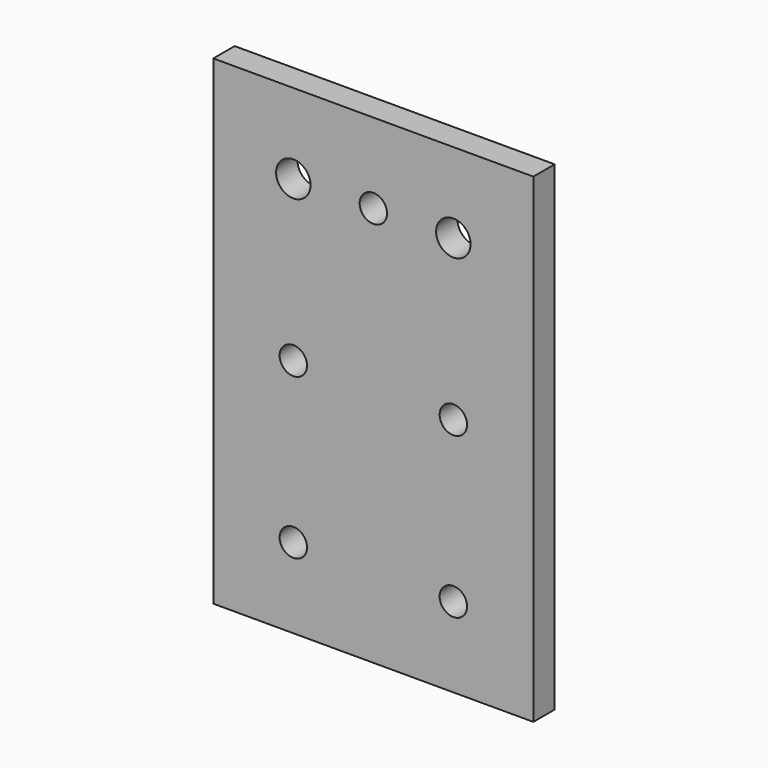
from build123d import *

# Parameters (mm, degrees)
F0_W     = 76.2
F0_H     = 114.3
F0_R     = 3.2639
F0_R_2   = 4.1021
F1_DEPTH = 6.35


with BuildPart() as f1:
    # F0 (on Front) → F1 (new body)
    with BuildSketch(Plane.XZ):
        with Locations((38.1, 57.15)):
            Rectangle(F0_W, F0_H)
        with Locations((19.05, 19.05)):
            Circle(F0_R, mode=Mode.SUBTRACT)
        with Locations((57.15, 19.05)):
            Circle(F0_R, mode=Mode.SUBTRACT)
        with Locations((19.05, 57.15)):
            Circle(F0_R, mode=Mode.SUBTRACT)
        with Locations((19.05, 95.25)):
            Circle(F0_R_2, mode=Mode.SUBTRACT)
        with Locations((57.15, 57.15)):
            Circle(F0_R, mode=Mode.SUBTRACT)
        with Locations((38.1, 95.25)):
            Circle(F0_R, mode=Mode.SUBTRACT)
        with Locations((57.15, 95.25)):
            Circle(F0_R_2, mode=Mode.SUBTRACT)
    extrude(amount=F1_DEPTH)


solid = f1.part
